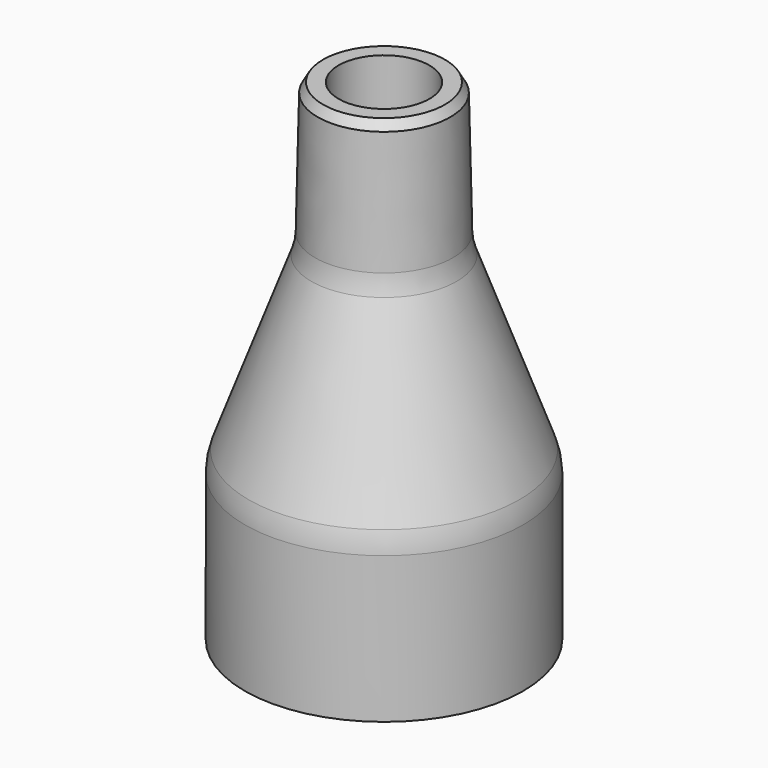
from build123d import *

# Parameters (mm, degrees)
F2_R = 15


with BuildPart() as f1:
    # F0 (on Front) → F1 (revolve)
    with BuildSketch(Plane.XZ):
        Polygon((-34.2265, 0), (-30.4165, 0), (-29.077178, 2.319773), (-28.083861, 35.56), (-27.639419, 40.64), (-11.17, 85.658427), (-11.17, 120.65), (-14.98, 120.65), (-16.300187, 118.363368), (-17.018, 85.658427), (-34.2265, 38.619754), align=None)
    revolve(axis=Axis((0, 0, 84.68134), (0, 0, 1)))

    # F2
    f2_edges = [f1.edges().sort_by_distance(p)[0] for p in [
        (34.2265, 0, 38.619754),
        (17.018, 0, 85.658427),
        (11.17, 0, 85.658427),
    ]]
    fillet(f2_edges, radius=F2_R)


solid = f1.part
